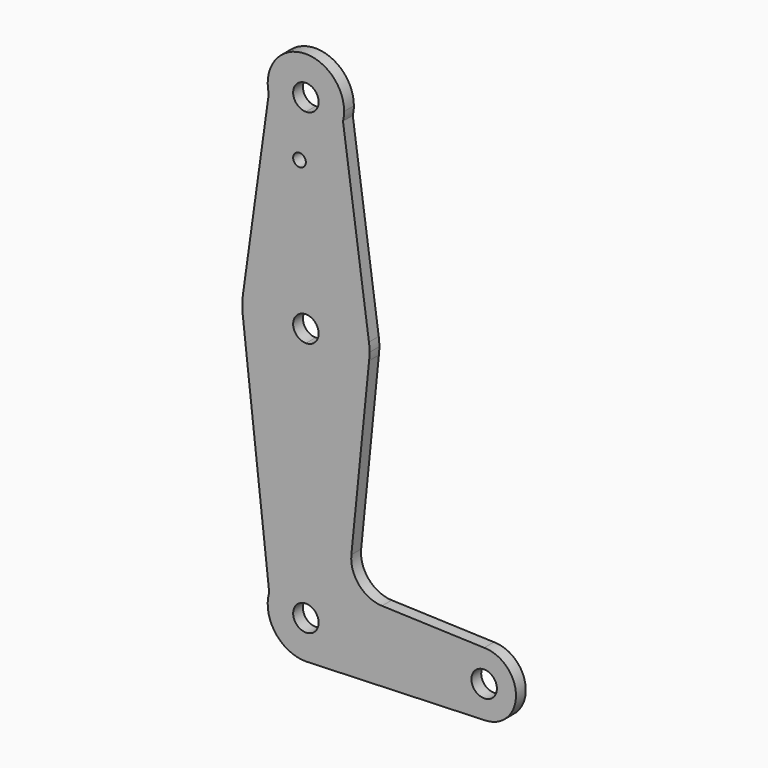
from build123d import *

# Parameters (mm, degrees)
F0_R     = 1.5875
F1_DEPTH = 3.048


with BuildPart() as f1:
    # F0 (on Front) → F1 (new body)
    with BuildSketch(Plane.XZ):
        with BuildLine():
            ThreePointArc((9.2569889007, 112.0563909669), (9.4577598901, 113.1702199946), (9.525, 114.3))
            ThreePointArc((9.525, 114.3), (-1.1297800054, 123.7577598901), (-9.2569889007, 112.0563909669))
            ThreePointArc((-9.2569889007, 112.0563909669), (-5.8887710501, 106.8134787438), (0, 104.775))
            ThreePointArc((0, 104.775), (5.8887710501, 106.8134787438), (9.2569889007, 112.0563909669))
        make_face()
        with BuildLine():
            ThreePointArc((3.175, 114.3), (2.2450640303, 112.0549359697), (0, 111.125))
            ThreePointArc((0, 111.125), (-2.2450640303, 116.5450640303), (3.175, 114.3))
        make_face(mode=Mode.SUBTRACT)
        with BuildLine():
            ThreePointArc((0, 104.775), (-5.8887710501, 106.8134787438), (-9.2569889007, 112.0563909669))
            Line((-9.2569889007, 112.0563909669), (-15.7228401856, 65.6926973112))
            ThreePointArc((-15.7228401856, 65.6926973112), (-10.4212896319, 75.4754894433), (0, 79.375))
            Line((0, 79.375), (0, 100.0252))
            Line((0, 100.0252), (0, 104.775))
        make_face()
        with Locations((-1.5875, 100.0252)):
            Circle(F0_R, mode=Mode.SUBTRACT)
        with BuildLine():
            Line((15.7228401856, 65.6926973112), (9.2569889007, 112.0563909669))
            ThreePointArc((9.2569889007, 112.0563909669), (5.8887710501, 106.8134787438), (0, 104.775))
            Line((0, 104.775), (0, 100.0252))
            Line((0, 100.0252), (0, 79.375))
            ThreePointArc((0, 79.375), (10.4212896319, 75.4754894433), (15.7228401856, 65.6926973112))
        make_face()
        with BuildLine():
            ThreePointArc((0, 79.375), (-10.4212896319, 75.4754894433), (-15.7228401856, 65.6926973112))
            ThreePointArc((-15.7228401856, 65.6926973112), (-15.8742562361, 63.6536683189), (-15.762341881, 61.6120901967))
            ThreePointArc((-15.762341881, 61.6120901967), (-10.5367228509, 51.6259486036), (0, 47.625))
            Line((0, 47.625), (0, 60.325))
            ThreePointArc((0, 60.325), (-3.175, 63.5), (0, 66.675))
            Line((0, 66.675), (0, 79.375))
        make_face()
        with BuildLine():
            ThreePointArc((15.875, 63.5), (15.8369143609, 64.598985226), (15.7228401856, 65.6926973112))
            ThreePointArc((15.7228401856, 65.6926973112), (10.4212896319, 75.4754894433), (0, 79.375))
            Line((0, 79.375), (0, 66.675))
            ThreePointArc((0, 66.675), (2.2450640303, 65.7450640303), (3.175, 63.5))
            ThreePointArc((3.175, 63.5), (2.2450640303, 61.2549359697), (0, 60.325))
            Line((0, 60.325), (0, 47.625))
            ThreePointArc((0, 47.625), (10.5367228509, 51.6259486036), (15.762341881, 61.6120901967))
            ThreePointArc((15.762341881, 61.6120901967), (15.8468104419, 62.5543659168), (15.875, 63.5))
        make_face()
        with BuildLine():
            ThreePointArc((0, 47.625), (-10.5367228509, 51.6259486036), (-15.762341881, 61.6120901967))
            Line((-15.762341881, 61.6120901967), (-9.1512921553, 2.6418699604))
            ThreePointArc((-9.1512921553, 2.6418699604), (-5.7254612752, 7.6121428117), (0, 9.525))
            Line((0, 9.525), (0, 47.625))
        make_face()
        with BuildLine():
            ThreePointArc((15.762341881, 61.6120901967), (10.5367228509, 51.6259486036), (0, 47.625))
            Line((0, 47.625), (0, 9.525))
            ThreePointArc((0, 9.525), (6.7351920908, 6.7351920908), (9.525, 0))
            Line((9.525, 0), (36.5125, 0))
            ThreePointArc((36.5125, 0), (38.8373399243, 5.6126600757), (44.45, 7.9375))
            Line((44.45, 7.9375), (18.9663615529, 8.8476299445))
            ThreePointArc((18.9663615529, 8.8476299445), (13.2599596272, 11.5655566149), (11.3397308707, 17.587422592))
            Line((11.3397308707, 17.587422592), (15.762341881, 61.6120901967))
        make_face()
        with BuildLine():
            ThreePointArc((0, 9.525), (-5.7254612752, 7.6121428117), (-9.1512921553, 2.6418699604))
            ThreePointArc((-9.1512921553, 2.6418699604), (-7.6121428117, -5.7254612752), (0, -9.525))
            Line((0, -9.525), (0.6773435479, -9.500885786))
            ThreePointArc((0.6773435479, -9.500885786), (6.9705567315, -6.4912990883), (9.525, 0))
            Line((9.525, 0), (3.175, 0))
            ThreePointArc((3.175, 0), (-2.2450640303, -2.2450640303), (0, 3.175))
            Line((0, 3.175), (0, 9.525))
        make_face()
        with BuildLine():
            Line((0.6773435479, -9.500885786), (0, -9.525))
            ThreePointArc((0, -9.525), (0.3388863295, -9.5189695375), (0.6773435479, -9.500885786))
        make_face()
        with BuildLine():
            Line((36.5125, 0), (9.525, 0))
            ThreePointArc((9.525, 0), (6.9705567315, -6.4912990883), (0.6773435479, -9.500885786))
            Line((0.6773435479, -9.500885786), (44.7324052746, -7.9324746146))
            ThreePointArc((44.7324052746, -7.9324746146), (38.9380895153, -5.7116327839), (36.5125, 0))
        make_face()
        with BuildLine():
            ThreePointArc((44.45, 7.9375), (38.8373399243, 5.6126600757), (36.5125, 0))
            ThreePointArc((36.5125, 0), (38.9380895153, -5.7116327839), (44.7324052746, -7.9324746146))
            ThreePointArc((44.7324052746, -7.9324746146), (50.1616327839, -5.5119104847), (52.3875, 0))
            ThreePointArc((52.3875, 0), (50.0626600757, 5.6126600757), (44.45, 7.9375))
        make_face()
        with BuildLine():
            ThreePointArc((47.625, 0), (44.45, -3.175), (41.275, 0))
            ThreePointArc((41.275, 0), (44.45, 3.175), (47.625, 0))
        make_face(mode=Mode.SUBTRACT)
        with BuildLine():
            ThreePointArc((9.525, 0), (6.7351920908, 6.7351920908), (0, 9.525))
            Line((0, 9.525), (0, 3.175))
            ThreePointArc((0, 3.175), (2.2450640303, 2.2450640303), (3.175, 0))
            Line((3.175, 0), (9.525, 0))
        make_face()
    extrude(amount=F1_DEPTH)


solid = f1.part
